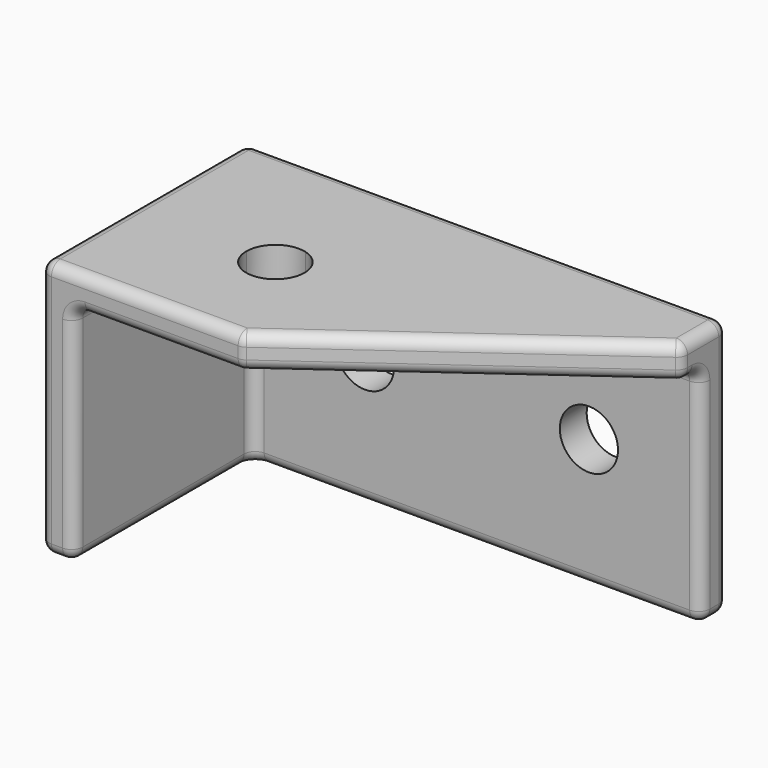
from build123d import *

# Parameters (mm, degrees)
F0_W     = 43
F0_H     = 23
F0_R     = 2.6
F1_DEPTH = 1.5
F3_DEPTH = 20
F5_DEPTH = 3.001
F7_DEPTH = 3.001
F8_R     = 1


with BuildPart() as f1:
    # F0 (on Front) → F1 (new body, symmetric)
    with BuildSketch(Plane.XZ):
        Rectangle(F0_W, F0_H)
        with Locations((-11.5, 0)):
            Circle(F0_R, mode=Mode.SUBTRACT)
        with Locations((8.5, 0)):
            Circle(F0_R, mode=Mode.SUBTRACT)
    extrude(amount=F1_DEPTH, both=True)

    # F2 (on face) → F3 (join)
    with BuildSketch(Plane.XZ.offset(1.5)):
        Polygon((21.5, -11.5), (21.5, 11.5), (-21.5, 11.5), (-21.5, 8.5), (18.5, 8.5), (18.5, -11.5), align=None)
    extrude(amount=F3_DEPTH)

    # F4 (on face) → F5 (cut, through all)
    with BuildSketch(Plane(origin=(0, 0, 8.5), x_dir=(1, 0, 0), z_dir=(0, 0, -1))):
        with BuildLine():
            ThreePointArc((9.1542480146, 14.0163385176), (5.9836614824, 12.1542480146), (7.8457519854, 8.9836614824))
            Line((7.8457519854, 8.9836614824), (9.1542480146, 14.0163385176))
        make_face()
        with BuildLine():
            Line((9.1542480146, 14.0163385176), (7.8457519854, 8.9836614824))
            ThreePointArc((7.8457519854, 8.9836614824), (10.0904331426, 9.4431766194), (11.1, 11.5))
            ThreePointArc((11.1, 11.5), (10.5568233806, 13.0904331426), (9.1542480146, 14.0163385176))
        make_face()
    extrude(amount=-F5_DEPTH, mode=Mode.SUBTRACT)

    # F6 (on face) → F7 (cut, through all)
    with BuildSketch(Plane(origin=(0, 0, 8.5), x_dir=(1, 0, 0), z_dir=(0, 0, -1))):
        Polygon((-21.5, 3.5), (3.5, 21.5), (-21.5, 21.5), align=None)
    extrude(amount=-F7_DEPTH, mode=Mode.SUBTRACT)

    # F8
    f8_edges = [f1.edges().sort_by_distance(p)[0] for p in [
        (21.5, 1.5, 0),
        (21.5, -10, 11.5),
        (21.5, -21.5, 0),
        (21.5, -10, -11.5),
        (0, 1.5, -11.5),
        (0, 1.5, 11.5),
        (-21.5, -1, 11.5),
        (-9, -12.5, 11.5),
        (12.5, -21.5, 11.5),
        (-9, -12.5, 8.5),
        (3.5, -21.5, 10),
        (11, -21.5, 8.5),
        (18.5, -21.5, -1.5),
        (-1.5, -1.5, -11.5),
        (18.5, -11.5, 8.5),
        (18.5, -11.5, -11.5),
        (18.5, -1.5, -1.5),
        (20, -21.5, -11.5),
        (-21.5, 0, -11.5),
        (-21.5, 1.5, 0),
        (-21.5, -1.5, -1.5),
        (-21.5, -2.5, 8.5),
        (-21.5, -3.5, 10),
        (-1.5, -1.5, 8.5),
    ]]
    fillet(f8_edges, radius=F8_R)


with BuildPart() as f10_1:
    # F10: instance of F1
    add(f1.part.mirror(Plane(origin=(-21.5, -0.2115756963, 1.3410341816), x_dir=(0, -1, 0), z_dir=(-1, 0, 0))))


solid = f10_1.part
